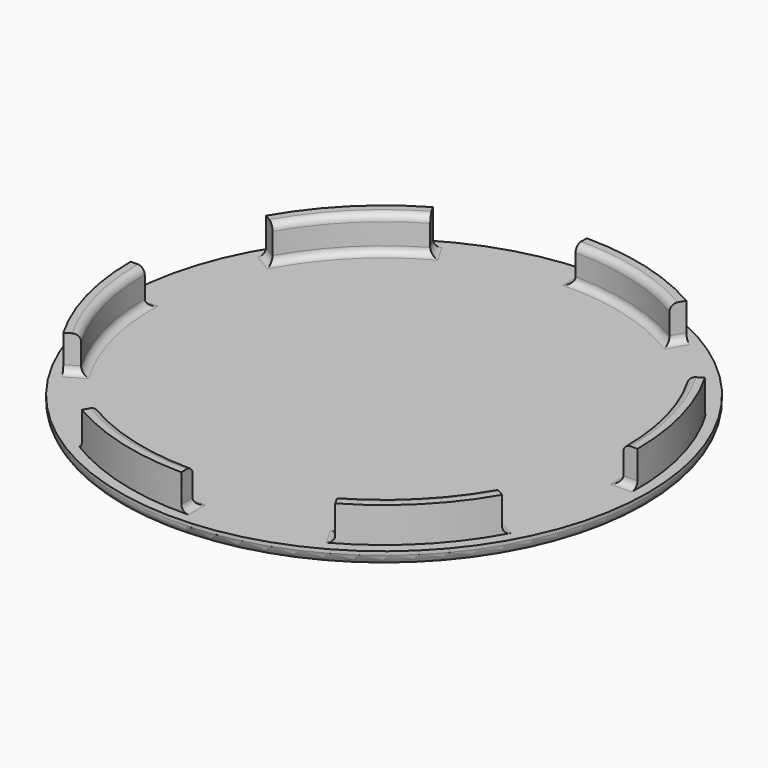
from build123d import *

# Parameters (mm, degrees)
F0_R     = 37.5
F0_R_2   = 32
F1_DEPTH = 2
F2_DEPTH = 7
F3_R     = 1.5
F4_R     = 1


with BuildPart() as f1:
    # F0 (on Top) → F1 (new body)
    with BuildSketch(Plane.XY):
        Circle(F0_R)
        with BuildLine():
            ThreePointArc((31.1769145362, 18), (34.7733297464, 9.3174856237), (36, 0))
            ThreePointArc((36, 0), (34.7733297464, -9.3174856237), (31.1769145362, -18))
            ThreePointArc((31.1769145362, -18), (25.4558441227, -25.4558441227), (18, -31.1769145362))
            ThreePointArc((18, -31.1769145362), (9.3174856237, -34.7733297464), (0, -36))
            ThreePointArc((0, -36), (-9.3174856237, -34.7733297464), (-18, -31.1769145362))
            ThreePointArc((-18, -31.1769145362), (-25.4558441227, -25.4558441227), (-31.1769145362, -18))
            ThreePointArc((-31.1769145362, -18), (-34.7733297464, -9.3174856237), (-36, 0))
            ThreePointArc((-36, 0), (-34.7733297464, 9.3174856237), (-31.1769145362, 18))
            ThreePointArc((-31.1769145362, 18), (-25.4558441227, 25.4558441227), (-18, 31.1769145362))
            ThreePointArc((-18, 31.1769145362), (-9.3174856237, 34.7733297464), (0, 36))
            ThreePointArc((0, 36), (9.3174856237, 34.7733297464), (18, 31.1769145362))
            ThreePointArc((18, 31.1769145362), (25.4558441227, 25.4558441227), (31.1769145362, 18))
        make_face(mode=Mode.SUBTRACT)
        with BuildLine():
            ThreePointArc((31.1769145362, -18), (34.7733297464, -9.3174856237), (36, 0))
            Line((36, 0), (34, 0))
            ThreePointArc((34, 0), (32.8414780938, 8.7998475335), (29.4448637287, 17))
            Line((29.4448637287, 17), (31.1769145362, 18))
            ThreePointArc((31.1769145362, 18), (25.4558441227, 25.4558441227), (18, 31.1769145362))
            Line((18, 31.1769145362), (17, 29.4448637287))
            ThreePointArc((17, 29.4448637287), (8.7998475335, 32.8414780938), (0, 34))
            Line((0, 34), (0, 36))
            ThreePointArc((0, 36), (-9.3174856237, 34.7733297464), (-18, 31.1769145362))
            Line((-18, 31.1769145362), (-17, 29.4448637287))
            ThreePointArc((-17, 29.4448637287), (-24.0416305603, 24.0416305603), (-29.4448637287, 17))
            Line((-29.4448637287, 17), (-31.1769145362, 18))
            ThreePointArc((-31.1769145362, 18), (-34.7733297464, 9.3174856237), (-36, 0))
            Line((-36, 0), (-34, 0))
            ThreePointArc((-34, 0), (-32.8414780938, -8.7998475335), (-29.4448637287, -17))
            Line((-29.4448637287, -17), (-31.1769145362, -18))
            ThreePointArc((-31.1769145362, -18), (-25.4558441227, -25.4558441227), (-18, -31.1769145362))
            Line((-18, -31.1769145362), (-17, -29.4448637287))
            ThreePointArc((-17, -29.4448637287), (-8.7998475335, -32.8414780938), (0, -34))
            Line((0, -34), (0, -36))
            ThreePointArc((0, -36), (9.3174856237, -34.7733297464), (18, -31.1769145362))
            Line((18, -31.1769145362), (17, -29.4448637287))
            ThreePointArc((17, -29.4448637287), (24.0416305603, -24.0416305603), (29.4448637287, -17))
            Line((29.4448637287, -17), (31.1769145362, -18))
        make_face()
        Circle(F0_R_2, mode=Mode.SUBTRACT)
        Circle(F0_R_2)
    extrude(amount=F1_DEPTH)

    # F0 (on Top) → F2 (join)
    with BuildSketch(Plane.XY):
        with BuildLine():
            Line((17, 29.4448637287), (18, 31.1769145362))
            ThreePointArc((18, 31.1769145362), (9.3174856237, 34.7733297464), (0, 36))
            Line((0, 36), (0, 34))
            ThreePointArc((0, 34), (8.7998475335, 32.8414780938), (17, 29.4448637287))
        make_face()
        with BuildLine():
            Line((34, 0), (36, 0))
            ThreePointArc((36, 0), (34.7733297464, 9.3174856237), (31.1769145362, 18))
            Line((31.1769145362, 18), (29.4448637287, 17))
            ThreePointArc((29.4448637287, 17), (32.8414780938, 8.7998475335), (34, 0))
        make_face()
        with BuildLine():
            ThreePointArc((-36, 0), (-34.7733297464, -9.3174856237), (-31.1769145362, -18))
            Line((-31.1769145362, -18), (-29.4448637287, -17))
            ThreePointArc((-29.4448637287, -17), (-32.8414780938, -8.7998475335), (-34, 0))
            Line((-34, 0), (-36, 0))
        make_face()
        with BuildLine():
            ThreePointArc((18, -31.1769145362), (25.4558441227, -25.4558441227), (31.1769145362, -18))
            Line((31.1769145362, -18), (29.4448637287, -17))
            ThreePointArc((29.4448637287, -17), (24.0416305603, -24.0416305603), (17, -29.4448637287))
            Line((17, -29.4448637287), (18, -31.1769145362))
        make_face()
        with BuildLine():
            ThreePointArc((-18, -31.1769145362), (-9.3174856237, -34.7733297464), (0, -36))
            Line((0, -36), (0, -34))
            ThreePointArc((0, -34), (-8.7998475335, -32.8414780938), (-17, -29.4448637287))
            Line((-17, -29.4448637287), (-18, -31.1769145362))
        make_face()
        with BuildLine():
            Line((-17, 29.4448637287), (-18, 31.1769145362))
            ThreePointArc((-18, 31.1769145362), (-25.4558441227, 25.4558441227), (-31.1769145362, 18))
            Line((-31.1769145362, 18), (-29.4448637287, 17))
            ThreePointArc((-29.4448637287, 17), (-24.0416305603, 24.0416305603), (-17, 29.4448637287))
        make_face()
    extrude(amount=F2_DEPTH)

    # F3
    f3_edges = [f1.edges().sort_by_distance(p)[0] for p in [
        (-37.5, 0, 0),
    ]]
    fillet(f3_edges, radius=F3_R)

    # F4
    f4_edges = [f1.edges().sort_by_distance(p)[0] for p in [
        (-24.041631, 24.041631, 7),
        (8.799848, 32.841478, 7),
        (32.841478, 8.799848, 7),
        (24.041631, -24.041631, 7),
        (-8.799848, -32.841478, 7),
        (-32.841478, -8.799848, 7),
        (-24.041631, 24.041631, 2),
        (8.799848, 32.841478, 2),
        (32.841478, 8.799848, 2),
        (-32.841478, -8.799848, 2),
        (-8.799848, -32.841478, 2),
        (24.041631, -24.041631, 2),
        (0, -35, 2),
        (-30.310889, -17.5, 2),
        (35, 0, 2),
        (17.5, 30.310889, 2),
        (30.310889, -17.5, 2),
        (17.5, -30.310889, 2),
        (-17.5, 30.310889, 2),
        (-35, 0, 2),
        (0, 35, 2),
        (-17.5, -30.310889, 2),
        (-30.310889, 17.5, 2),
        (30.310889, 17.5, 2),
    ]]
    fillet(f4_edges, radius=F4_R)


solid = f1.part
